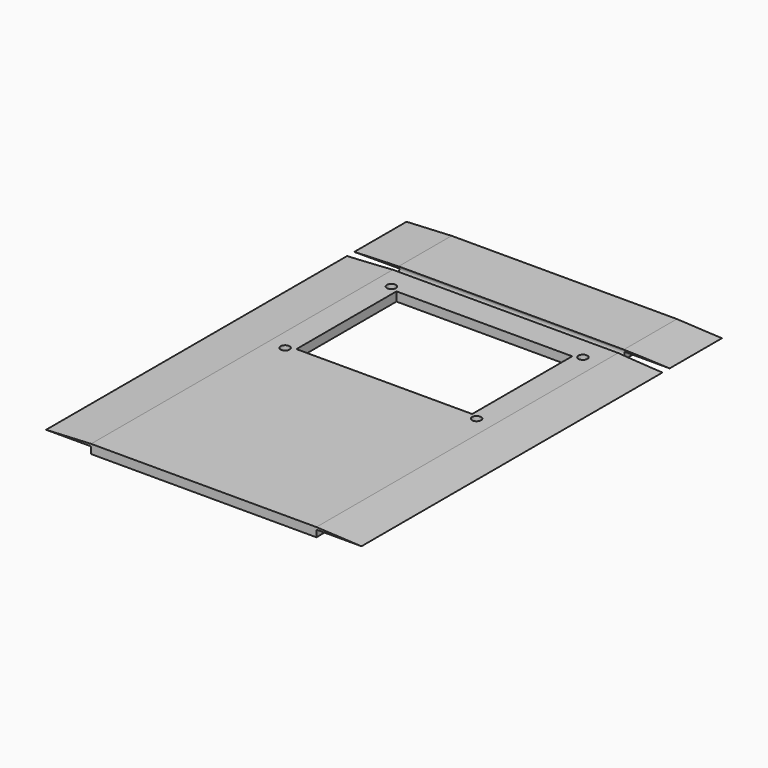
from build123d import *

# Parameters (mm, degrees)
F0_W          = 100
F0_H          = 200
F1_DEPTH      = 4
F2_W          = 78
F2_H          = 55.5
F2_R          = 2
F3_DEPTH      = 25
F5_DEPTH      = 200
F6_W          = 100
F6_H          = 8
F7_DEPTH      = 4
F8_R          = 2
F9_DEPTH      = 200
F9_DEPTH_BACK = 200


with BuildPart() as f1:
    # F0 (on Top) → F1 (new body)
    with BuildSketch(Plane.XY):
        with Locations((4.999995, 100)):
            Rectangle(F0_W, F0_H)
    extrude(amount=F1_DEPTH)

    # F2 (on face) → F3 (cut)
    with BuildSketch(Plane.XY.offset(4)):
        with Locations((5.131312, 127.75)):
            Rectangle(F2_W, F2_H)
        with Locations((-37.500005, 98.25)):
            Circle(F2_R)
        with Locations((-37.500005, 157.25)):
            Circle(F2_R)
        with Locations((47.499995, 157.25)):
            Circle(F2_R)
        with Locations((47.499995, 98.25)):
            Circle(F2_R)
    extrude(amount=-F3_DEPTH, mode=Mode.SUBTRACT)

    # F4 (on face) → F5 (join)
    with BuildSketch(Plane.XZ):
        Polygon((-45.000005, 3), (-45.000005, 4), (-65.000005, 3), align=None)
        Polygon((74.999995, 3), (54.999995, 4), (54.999995, 3), align=None)
    extrude(amount=-F5_DEPTH)

    # F6 (on face) → F7 (join)
    with BuildSketch(Plane(origin=(0, 0, 0), x_dir=(1, 0, 0), z_dir=(0, 0, -1))):
        with Locations((4.999995, -169)):
            Rectangle(F6_W, F6_H)
    extrude(amount=F7_DEPTH)

    # F8 (on face) → F9 (cut, two sides)
    with BuildSketch(Plane.YZ.offset(54.999995)) as f9_sk:
        with Locations((169, 2.8)):
            Circle(F8_R)
    extrude(amount=F9_DEPTH, mode=Mode.SUBTRACT)
    extrude(f9_sk.sketch, amount=-F9_DEPTH_BACK, mode=Mode.SUBTRACT)


solid = f1.part
